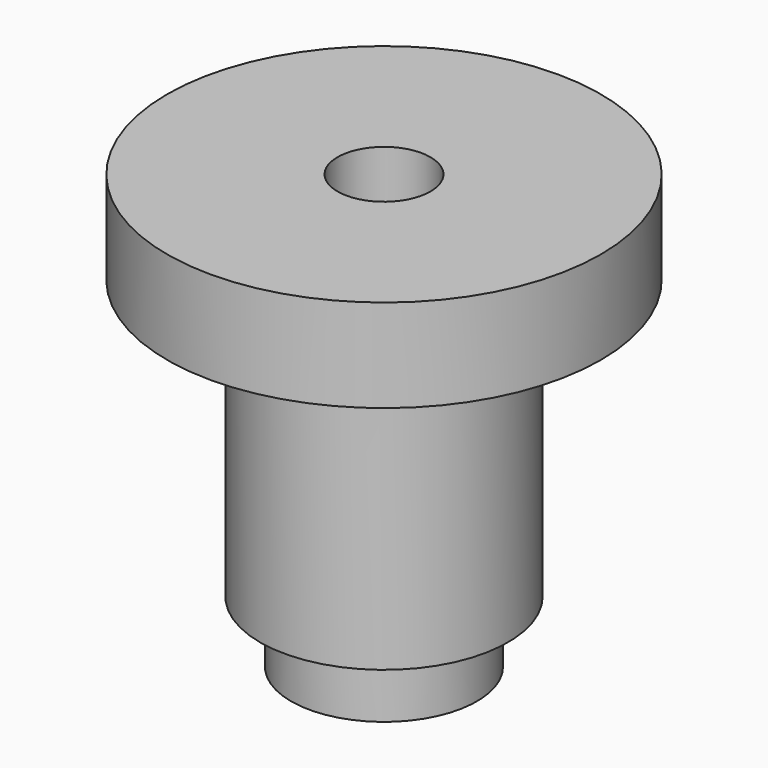
from build123d import *

# Parameters (mm, degrees)
F2_R     = 9.525
F3_DEPTH = 88.9


with BuildPart() as f1:
    # F0 (on Front) → F1 (revolve)
    with BuildSketch(Plane.XZ):
        Polygon((-16.631375, -91.427677), (2.418625, -91.427677), (2.418625, -2.527677), (-42.031375, -2.527677), (-42.031375, -21.577677), (-22.981375, -21.577677), (-22.981375, -78.727677), (-16.631375, -78.727677), align=None)
    revolve(axis=Axis((2.418625, 0, 3.463581), (0, 0, 1)))

    # F2 (on face) → F3 (cut)
    with BuildSketch(Plane(origin=(0, 0, -91.427677), x_dir=(1, 0, 0), z_dir=(0, 0, -1))):
        with Locations((2.418625, 0)):
            Circle(F2_R)
    extrude(amount=-F3_DEPTH, mode=Mode.SUBTRACT)


solid = f1.part
